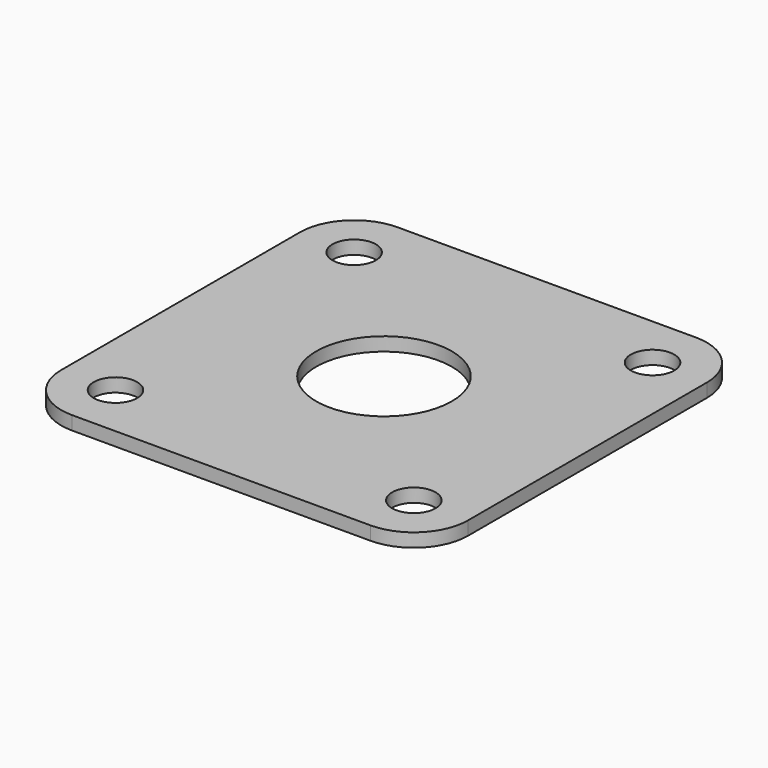
from build123d import *

# Parameters (mm, degrees)
CYLINDER021_R       = 5
CYLINDER021_DEPTH   = 15
CYLINDER107_R       = 1.6
CYLINDER107_DEPTH   = 20
ARRAY001008_X_COUNT = 2
ARRAY001008_X_PITCH = 22
ARRAY001008_Y_COUNT = 2
ARRAY001008_Y_PITCH = 22
BOX009_W            = 30
BOX009_H            = 30
BOX009_DEPTH        = 1
FILLET004_R         = 4


with BuildPart() as side_bearing_central_hole_cylinder001:
    # Cylinder021 → Cylinder021 (new body)
    with BuildSketch(Plane(origin=(15, 15, -4), x_dir=(1, 0, 0), z_dir=(0, 0, 1))):
        Circle(CYLINDER021_R)
    extrude(amount=CYLINDER021_DEPTH)


with BuildPart() as fusion010:
    # Cylinder107 → Cylinder107 (new body)
    with BuildSketch(Plane(origin=(4, 4, -7), x_dir=(1, 0, 0), z_dir=(0, 0, 1))):
        Circle(CYLINDER107_R)
    extrude(amount=CYLINDER107_DEPTH)

    # Array001008 X: Fusion010 ×2


with BuildPart() as fusion010_1:
    add(fusion010.part)
    with Locations(*[(i * ARRAY001008_X_PITCH, 0, 0) for i in range(1, ARRAY001008_X_COUNT)]):
        add(fusion010.part)

    # Array001008 Y: Fusion010 ×2


with BuildPart() as fusion010_2:
    add(fusion010_1.part)
    with Locations(*[(0, i * ARRAY001008_Y_PITCH, 0) for i in range(1, ARRAY001008_Y_COUNT)]):
        add(fusion010_1.part)

    # Fusion010: union side bearing central hole cylinder001
    add(side_bearing_central_hole_cylinder001.part)


with BuildPart() as bearing_cover_fillet:
    # Box009 → Box009 (new body)
    with BuildSketch(Plane.XY):
        with Locations((15, 15)):
            Rectangle(BOX009_W, BOX009_H)
    extrude(amount=BOX009_DEPTH)

    # Cut007: cut Fusion010
    add(fusion010_2.part, mode=Mode.SUBTRACT)

    # Fillet004
    fillet004_edges = [bearing_cover_fillet.edges().sort_by_distance(p)[0] for p in [
        (0, 0, 0.5),
        (0, 30, 0.5),
        (30, 0, 0.5),
        (30, 30, 0.5),
    ]]
    fillet(fillet004_edges, radius=FILLET004_R)


solid = bearing_cover_fillet.part
